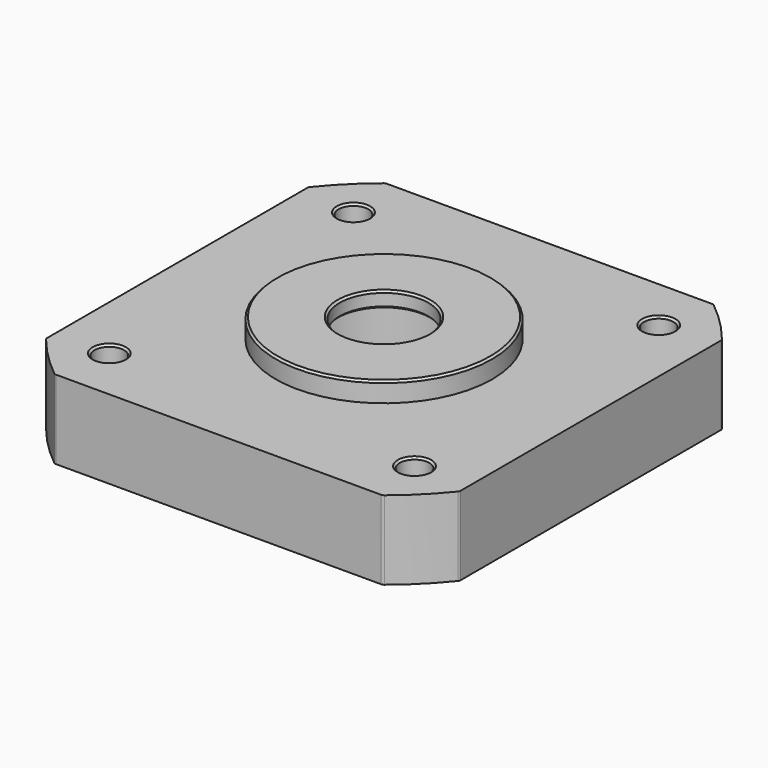
from build123d import *

# Parameters (mm, degrees)
SKETCH042_R     = 4.5
SKETCH042_R_2   = 1.5
PAD025_DEPTH    = 8
SKETCH043_R     = 11
SKETCH043_R_2   = 4.5
PAD026_DEPTH    = 2
SKETCH044_R     = 8
POCKET004_DEPTH = 8.4
CHAMFER003_SIZE = 0.2
FILLET004_R     = 0.4


with BuildPart() as part:
    # Sketch042 → Pad025 (new body)
    with BuildSketch(Plane.XY):
        with BuildLine():
            ThreePointArc((-16.650526, 21), (-18.950462, 18.950462), (-21, 16.650526))
            Line((-21, 16.650526), (-21, -16.650526))
            ThreePointArc((-21, -16.650526), (-18.950462, -18.950462), (-16.650526, -21))
            Line((-16.650526, -21), (16.650526, -21))
            ThreePointArc((16.650526, -21), (18.950462, -18.950462), (21, -16.650526))
            Line((21, 16.650526), (21, -16.650526))
            ThreePointArc((21, 16.650526), (18.950462, 18.950462), (16.650526, 21))
            Line((-16.650526, 21), (16.650526, 21))
        make_face()
        Circle(SKETCH042_R, mode=Mode.SUBTRACT)
        with Locations((-15.5, 15.5)):
            Circle(SKETCH042_R_2, mode=Mode.SUBTRACT)
        with Locations((15.5, 15.5)):
            Circle(SKETCH042_R_2, mode=Mode.SUBTRACT)
        with Locations((15.5, -15.5)):
            Circle(SKETCH042_R_2, mode=Mode.SUBTRACT)
        with Locations((-15.5, -15.5)):
            Circle(SKETCH042_R_2, mode=Mode.SUBTRACT)
    extrude(amount=PAD025_DEPTH)

    # Sketch043 (on Face15 of Pad025) → Pad026 (join)
    with BuildSketch(Plane.XY.offset(8)):
        Circle(SKETCH043_R)
        Circle(SKETCH043_R_2, mode=Mode.SUBTRACT)
    extrude(amount=PAD026_DEPTH)

    # Sketch044 → Pocket004 (cut)
    with BuildSketch(Plane.XY):
        Circle(SKETCH044_R)
    extrude(amount=POCKET004_DEPTH, mode=Mode.SUBTRACT)

    # Chamfer003
    chamfer003_edges = [part.edges().sort_by_distance(p)[0] for p in [
        (-11, 0, 10),
        (14, 15.5, 8),
        (-17, 15.5, 8),
        (-17, -15.5, 8),
        (14, -15.5, 8),
        (-4.5, 0, 10),
        (-4.5, 0, 8.4),
    ]]
    chamfer(chamfer003_edges, length=CHAMFER003_SIZE)

    # Fillet004
    fillet004_edges = [part.edges().sort_by_distance(p)[0] for p in [
        (16.650526, 21, 4),
        (21, 16.650526, 4),
        (21, -16.650526, 4),
        (16.650526, -21, 4),
        (-21, -16.650526, 4),
        (-16.650526, -21, 4),
        (-21, 16.650526, 4),
        (-16.650526, 21, 4),
    ]]
    fillet(fillet004_edges, radius=FILLET004_R)


with BuildPart() as part_1:
    # Body014 placement: moved
    add(part.part.moved(Location((0, 0, 29.4))))


solid = part_1.part
